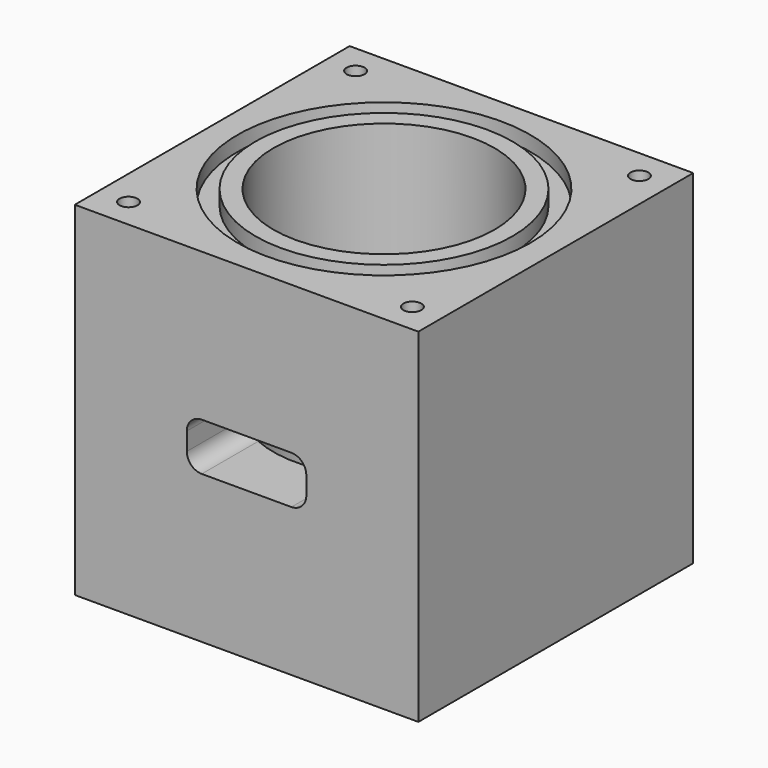
from build123d import *

# Parameters (mm, degrees)
F0_W      = 152.4
F0_H      = 152.4
F1_DEPTH  = 152.4
F2_W      = 6.35
F2_H      = 152.4
F3_DEPTH  = 152.401
F4_W      = 6.35
F4_H      = 152.4
F5_DEPTH  = 146.051
F6_W      = 146.05
F6_H      = 6.35
F7_DEPTH  = 146.051
F8_R      = 3.81
F9_DEPTH  = 25.4
F8_R_2    = 62.23
F8_R_3    = 54.61
F10_DEPTH = 6.35
F8_R_4    = 46.99
F11_DEPTH = 146.051
F13_DEPTH = 50.8
F14_R     = 3.81
F15_DEPTH = 25.4


with BuildPart() as f1:
    # F0 (on Top) → F1 (new body)
    with BuildSketch(Plane.XY):
        Rectangle(F0_W, F0_H)
    extrude(amount=F1_DEPTH)

    # F2 (on face) → F3 (cut, through all)
    with BuildSketch(Plane.XZ.offset(76.2)):
        with Locations((73.025, 76.2)):
            Rectangle(F2_W, F2_H)
    extrude(amount=-F3_DEPTH, mode=Mode.SUBTRACT)

    # F4 (on face) → F5 (cut, through all)
    with BuildSketch(Plane.YZ.offset(69.85)):
        with Locations((73.025, 76.2)):
            Rectangle(F4_W, F4_H)
    extrude(amount=-F5_DEPTH, mode=Mode.SUBTRACT)

    # F6 (on face) → F7 (cut, through all)
    with BuildSketch(Plane.XZ.offset(76.2)):
        with Locations((-3.175, 149.225)):
            Rectangle(F6_W, F6_H)
    extrude(amount=-F7_DEPTH, mode=Mode.SUBTRACT)

    # F8 (on face) → F9 (cut)
    with BuildSketch(Plane.XY.offset(146.05)):
        with Locations((-63.5, 57.15)):
            Circle(F8_R)
        with Locations((57.15, 57.15)):
            Circle(F8_R)
        with Locations((57.15, -63.5)):
            Circle(F8_R)
        with Locations((-63.5, -63.5)):
            Circle(F8_R)
    extrude(amount=-F9_DEPTH, mode=Mode.SUBTRACT)

    # F8 (on face) → F10 (cut)
    with BuildSketch(Plane.XY.offset(146.05)):
        with Locations((-3.175, -3.175)):
            Circle(F8_R_2)
        with Locations((-3.175, -3.175)):
            Circle(F8_R_3, mode=Mode.SUBTRACT)
    extrude(amount=-F10_DEPTH, mode=Mode.SUBTRACT)

    # F8 (on face) → F11 (cut, through all)
    with BuildSketch(Plane.XY.offset(146.05)):
        with Locations((-3.175, -3.175)):
            Circle(F8_R_4)
    extrude(amount=-F11_DEPTH, mode=Mode.SUBTRACT)

    # F12 (on face) → F13 (cut)
    with BuildSketch(Plane.XZ.offset(76.2)):
        with BuildLine():
            ThreePointArc((22.225, 76.835), (20.3651280605, 81.3251280605), (15.875, 83.185))
            Line((15.875, 83.185), (-22.225, 83.185))
            ThreePointArc((-22.225, 83.185), (-26.7151280605, 81.3251280605), (-28.575, 76.835))
            Line((-28.575, 76.835), (-28.575, 69.215))
            ThreePointArc((-28.575, 69.215), (-26.7151280605, 64.7248719395), (-22.225, 62.865))
            Line((-22.225, 62.865), (15.875, 62.865))
            ThreePointArc((15.875, 62.865), (20.3651280605, 64.7248719395), (22.225, 69.215))
            Line((22.225, 69.215), (22.225, 76.835))
        make_face()
    extrude(amount=-F13_DEPTH, mode=Mode.SUBTRACT)

    # F14 (on face) → F15 (cut)
    with BuildSketch(Plane(origin=(0, 0, 0), x_dir=(1, 0, 0), z_dir=(0, 0, -1))):
        with Locations((-63.5, 63.5)):
            Circle(F14_R)
        with Locations((57.15, 63.5)):
            Circle(F14_R)
        with Locations((57.15, -57.15)):
            Circle(F14_R)
        with Locations((-63.5, -57.15)):
            Circle(F14_R)
    extrude(amount=-F15_DEPTH, mode=Mode.SUBTRACT)


solid = f1.part
